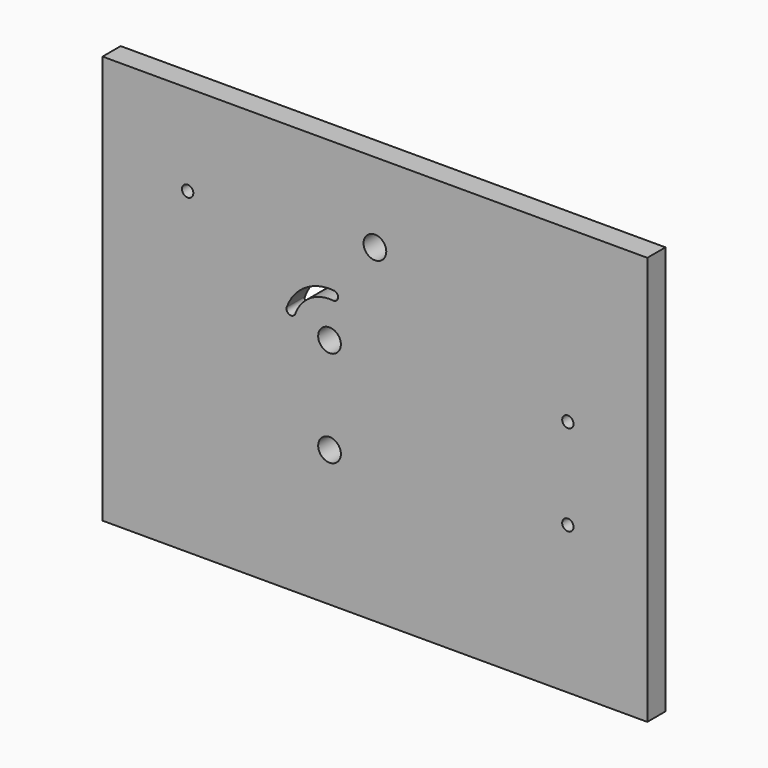
from build123d import *

# Parameters (mm, degrees)
F0_W     = 609.6
F0_H     = 457.2
F0_R     = 12.7
F0_R_2   = 6.35
F1_DEPTH = 25.4


with BuildPart() as f1:
    # F0 (on Front) → F1 (new body)
    with BuildSketch(Plane.XZ):
        with Locations((304.8, 228.6)):
            Rectangle(F0_W, F0_H)
        with Locations((254, 152.4)):
            Circle(F0_R, mode=Mode.SUBTRACT)
        with Locations((520.7, 165.1)):
            Circle(F0_R_2, mode=Mode.SUBTRACT)
        with Locations((254, 260.35)):
            Circle(F0_R, mode=Mode.SUBTRACT)
        with BuildLine():
            ThreePointArc((206.159954, 277.437129), (226.837397, 303.278231), (259.043654, 310.899001))
            ThreePointArc((259.043654, 310.899001), (263.594189, 305.339736), (258.034924, 300.789201))
            ThreePointArc((258.034924, 300.789201), (232.269917, 294.692585), (215.727963, 274.019703))
            ThreePointArc((215.727963, 274.019703), (209.235246, 270.944412), (206.159954, 277.437129))
        make_face(mode=Mode.SUBTRACT)
        with Locations((95.25, 355.6)):
            Circle(F0_R_2, mode=Mode.SUBTRACT)
        with Locations((520.7, 266.7)):
            Circle(F0_R_2, mode=Mode.SUBTRACT)
        with Locations((304.8, 368.3)):
            Circle(F0_R, mode=Mode.SUBTRACT)
    extrude(amount=F1_DEPTH)


solid = f1.part
